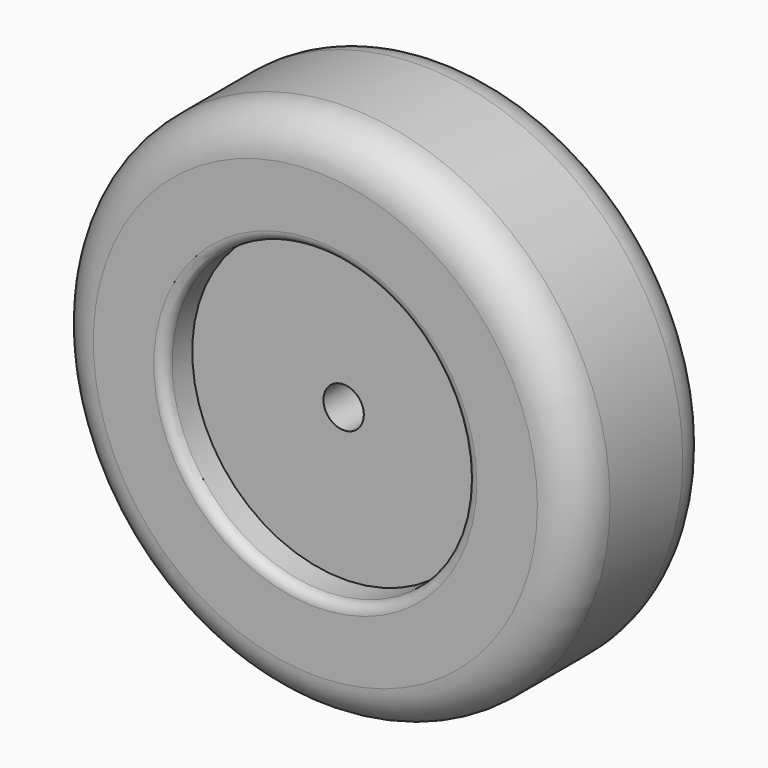
from build123d import *

# Parameters (mm, degrees)
F0_R     = 75
F0_R_2   = 10
F1_DEPTH = 25
F0_R_3   = 130
F2_DEPTH = 42.5
F3_R     = 20
F4_R     = 5


with BuildPart() as f1:
    # F0 (on Front) → F1 (new body, symmetric)
    with BuildSketch(Plane.XZ):
        Circle(F0_R)
        Circle(F0_R_2, mode=Mode.SUBTRACT)
    extrude(amount=F1_DEPTH, both=True)


with BuildPart() as f2:
    # F0 (on Front) → F2 (new body, symmetric)
    with BuildSketch(Plane.XZ):
        Circle(F0_R_3)
        Circle(F0_R, mode=Mode.SUBTRACT)
    extrude(amount=F2_DEPTH, both=True)

    # F3
    f3_edges = [f2.edges().sort_by_distance(p)[0] for p in [
        (-130, -42.5, 0),
        (-130, 42.5, 0),
    ]]
    fillet(f3_edges, radius=F3_R)

    # F4
    f4_edges = [f2.edges().sort_by_distance(p)[0] for p in [
        (-75, -42.5, 0),
        (-75, 42.5, 0),
    ]]
    fillet(f4_edges, radius=F4_R)


solid = Compound([f1.part, f2.part])
